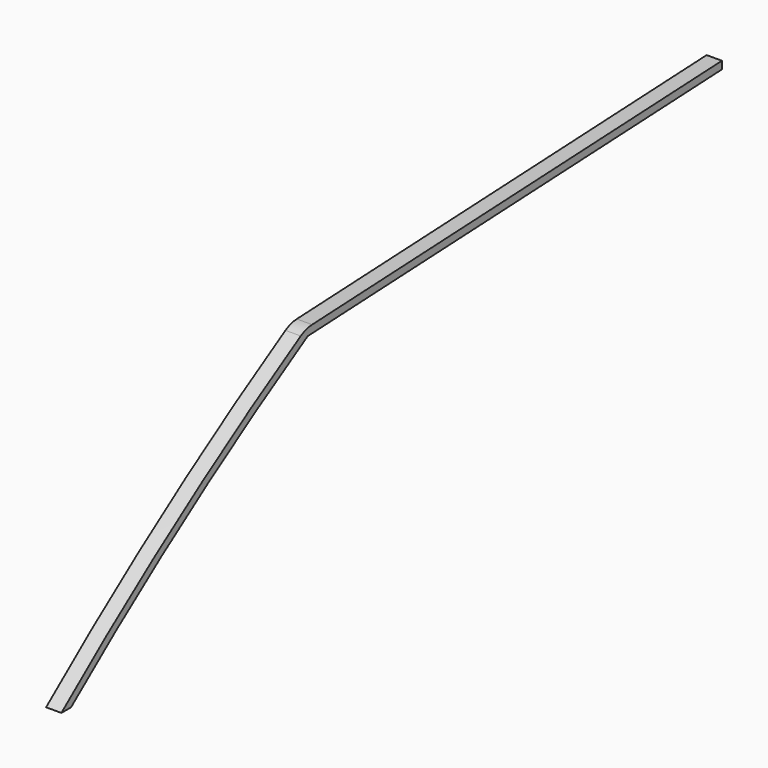
from build123d import *

# Parameters (mm, degrees)
F1_DEPTH = 12.7


with BuildPart() as f1:
    # F0 (on Right) → F1 (new body)
    with BuildSketch(Plane.YZ):
        with BuildLine():
            ThreePointArc((-68.898448, 178.096197), (-74.992037, 177.056382), (-80.653981, 174.575369))
            ThreePointArc((-80.653981, 174.575369), (-208.301311, 92.096861), (-329.192638, 0))
            Line((-329.192638, 0), (-319.189282, 0))
            ThreePointArc((-319.189282, 0), (-201.534739, 89.085299), (-77.506695, 169.059209))
            Line((-77.506695, 169.059209), (-73.337511, 171.530273))
            Line((-73.337511, 171.530273), (356.607362, 191.762973))
            Line((356.607362, 191.762973), (356.607362, 198.12))
            Line((356.607362, 198.12), (-68.898448, 178.096197))
        make_face()
    extrude(amount=F1_DEPTH)


solid = f1.part
